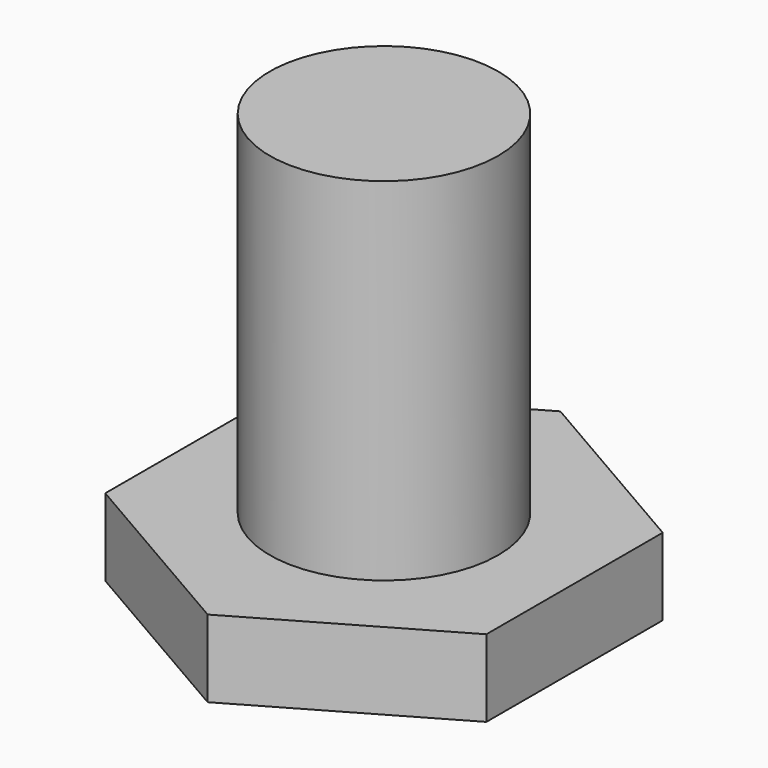
from build123d import *

# Parameters (mm, degrees)
F1_DEPTH = 9
F2_R     = 13.3263781117
F3_DEPTH = 50


with BuildPart() as f1:
    # F0 (on Top) → F1 (new body)
    with BuildSketch(Plane.XY):
        Polygon((22.2521245334, 12.818630667), (0.0248024674, 25.6802204676), (-22.227322066, 12.8615898006), (-22.2521245334, -12.818630667), (-0.0248024674, -25.6802204676), (22.227322066, -12.8615898006), align=None)
    extrude(amount=F1_DEPTH)


with BuildPart() as f3:
    # F2 (on Top) → F3 (new body)
    with BuildSketch(Plane.XY):
        Circle(F2_R)
    extrude(amount=F3_DEPTH)


solid = Compound([f1.part, f3.part])
